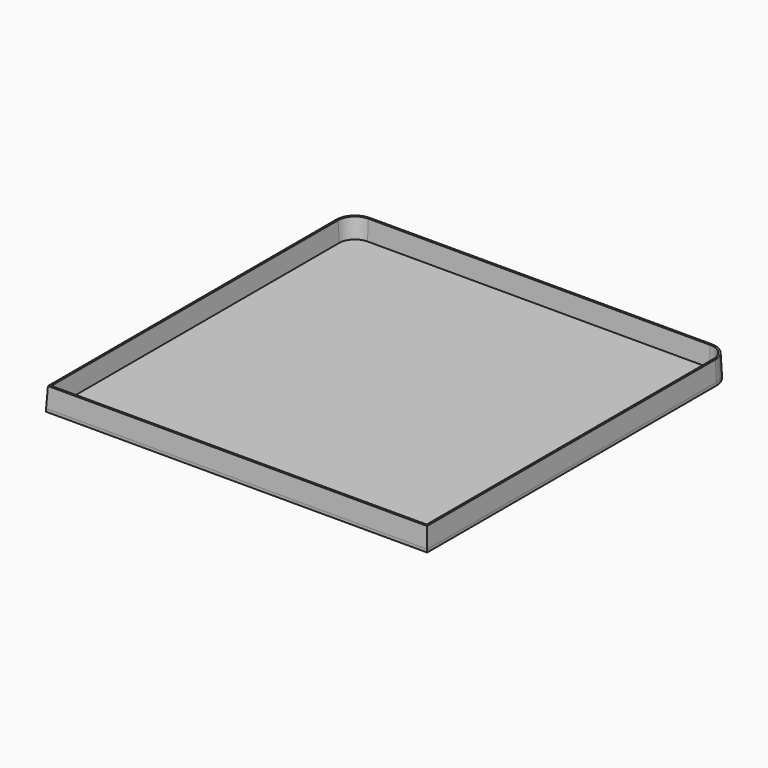
from build123d import *

# Parameters (mm, degrees)
F1_DEPTH = 10
F1_TAPER = 3
F3_DEPTH = 1.5


with BuildPart() as f1:
    # F0 (on Top) → F1 (new body)
    with BuildSketch(Plane.XY):
        with BuildLine():
            Line((-97, -97), (97, -97))
            Line((97, -97), (97, 87))
            ThreePointArc((97, 87), (94.0710678119, 94.0710678119), (87, 97))
            Line((87, 97), (-87, 97))
            ThreePointArc((-87, 97), (-94.0710678119, 94.0710678119), (-97, 87))
            Line((-97, 87), (-97, -97))
        make_face()
        with BuildLine():
            Line((95, 87), (95, -95))
            Line((95, -95), (-95, -95))
            Line((-95, -95), (-95, 87))
            ThreePointArc((-95, 87), (-92.6568542495, 92.6568542495), (-87, 95))
            Line((-87, 95), (87, 95))
            ThreePointArc((87, 95), (92.6568542495, 92.6568542495), (95, 87))
        make_face(mode=Mode.SUBTRACT)
    extrude(amount=F1_DEPTH, taper=F1_TAPER)

    # F2 (on face) → F3 (join)
    with BuildSketch(Plane(origin=(0, 0, 0), x_dir=(1, 0, 0), z_dir=(0, 0, -1))):
        with BuildLine():
            Line((97, -87), (97, 97))
            Line((97, 97), (-97, 97))
            Line((-97, 97), (-97, -87))
            ThreePointArc((-97, -87), (-94.0710678119, -94.0710678119), (-87, -97))
            Line((-87, -97), (87, -97))
            ThreePointArc((87, -97), (94.0710678119, -94.0710678119), (97, -87))
        make_face()
    extrude(amount=F3_DEPTH)


solid = f1.part
